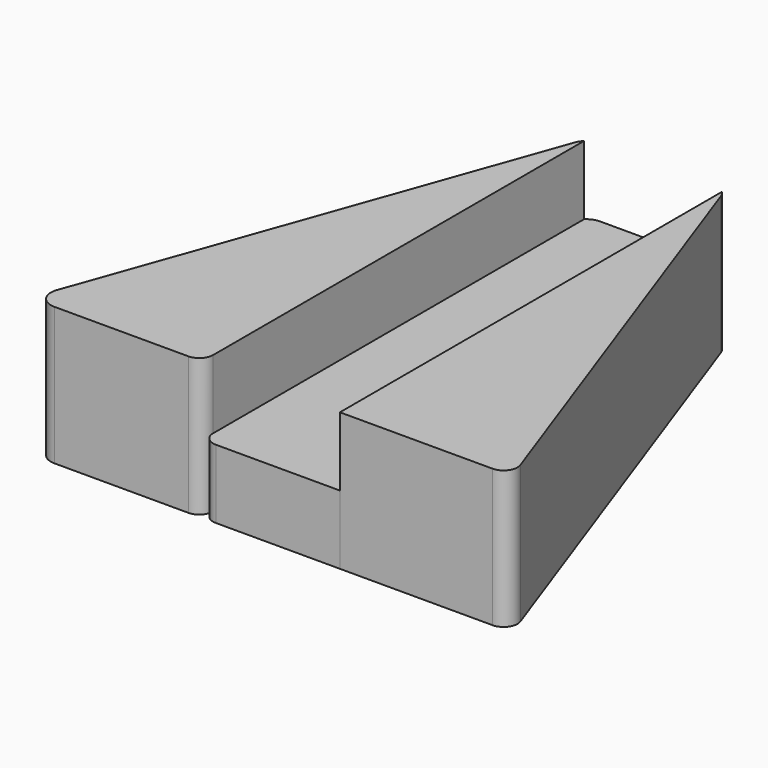
from build123d import *

# Parameters (mm, degrees)
F1_DEPTH = 50.8
F2_DEPTH = 25.4
F3_R     = 6.35
F4_R     = 5.08
F5_R     = 5.08
F6_R     = 5.08


with BuildPart() as f1:
    # F0 (on Top) → F1 (new body)
    with BuildSketch(Plane.XY):
        with BuildLine():
            Line((-35.675994, -10.61857), (-35.675994, 165.336669))
            ThreePointArc((-35.675994, 165.336669), (-36.561115, 164.236127), (-37.181088, 162.967166))
            Line((-37.181088, 162.967166), (-99.175994, -10.61857))
            Line((-99.175994, -10.61857), (-35.675994, -10.61857))
        make_face()
        with BuildLine():
            ThreePointArc((16.6291, 162.967166), (16.009126, 164.236127), (15.124006, 165.336669))
            Line((15.124006, 165.336669), (15.124006, -10.61857))
            Line((15.124006, -10.61857), (78.624006, -10.61857))
            Line((78.624006, -10.61857), (16.6291, 162.967166))
        make_face()
    extrude(amount=F1_DEPTH)

    # F3
    f3_edges = [f1.edges().sort_by_distance(p)[0] for p in [
        (-99.175994, -10.61857, 25.4),
    ]]
    fillet(f3_edges, radius=F3_R)

    # F4
    f4_edges = [f1.edges().sort_by_distance(p)[0] for p in [
        (78.624006, -10.61857, 25.4),
    ]]
    fillet(f4_edges, radius=F4_R)

    # F6
    f6_edges = [f1.edges().sort_by_distance(p)[0] for p in [
        (-35.675994, -10.61857, 25.4),
    ]]
    fillet(f6_edges, radius=F6_R)


with BuildPart() as f2:
    # F0 (on Top) → F2 (new body)
    with BuildSketch(Plane.XY):
        with BuildLine():
            Line((10.649039, 167.18143), (-31.201027, 167.18143))
            ThreePointArc((-31.201027, 167.18143), (-33.621176, 166.702153), (-35.675994, 165.336669))
            Line((-35.675994, 165.336669), (-35.675994, -10.61857))
            Line((-35.675994, -10.61857), (15.124006, -10.61857))
            Line((15.124006, -10.61857), (15.124006, 165.336669))
            ThreePointArc((15.124006, 165.336669), (13.069187, 166.702153), (10.649039, 167.18143))
        make_face()
    extrude(amount=F2_DEPTH)

    # F5
    f5_edges = [f2.edges().sort_by_distance(p)[0] for p in [
        (-35.675994, -10.61857, 25.4),
    ]]
    fillet(f5_edges, radius=F5_R)


solid = Compound([f1.part, f2.part])
